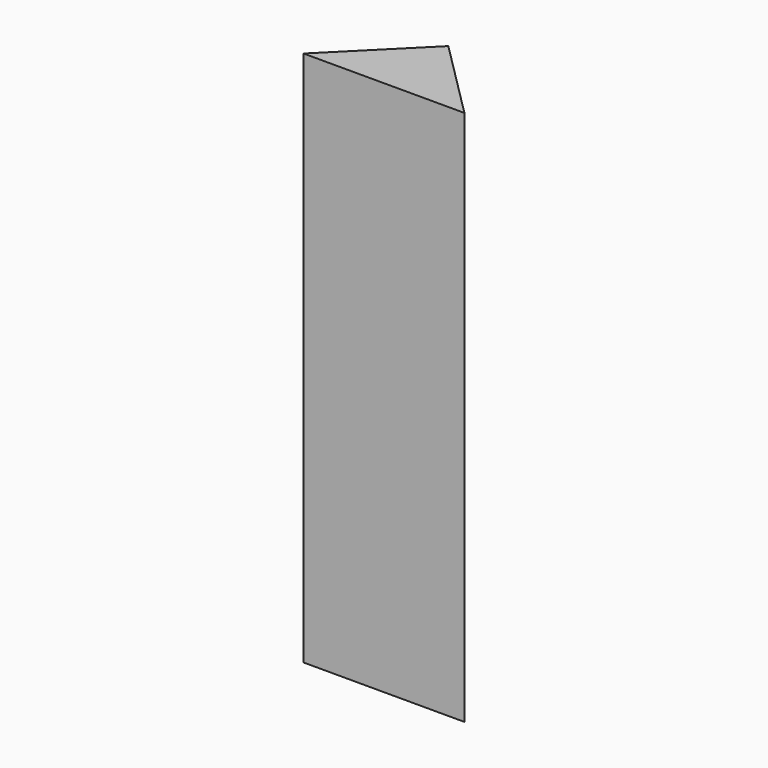
from build123d import *

# Parameters (mm, degrees)
EXTRUDE_DEPTH = 50


with BuildPart() as part:
    # Sketch → Extrude (new body, symmetric)
    with BuildSketch(Plane.XY):
        Polygon((-15, 0), (0, 15), (15, 0), align=None)
    extrude(amount=EXTRUDE_DEPTH, both=True)


solid = part.part
